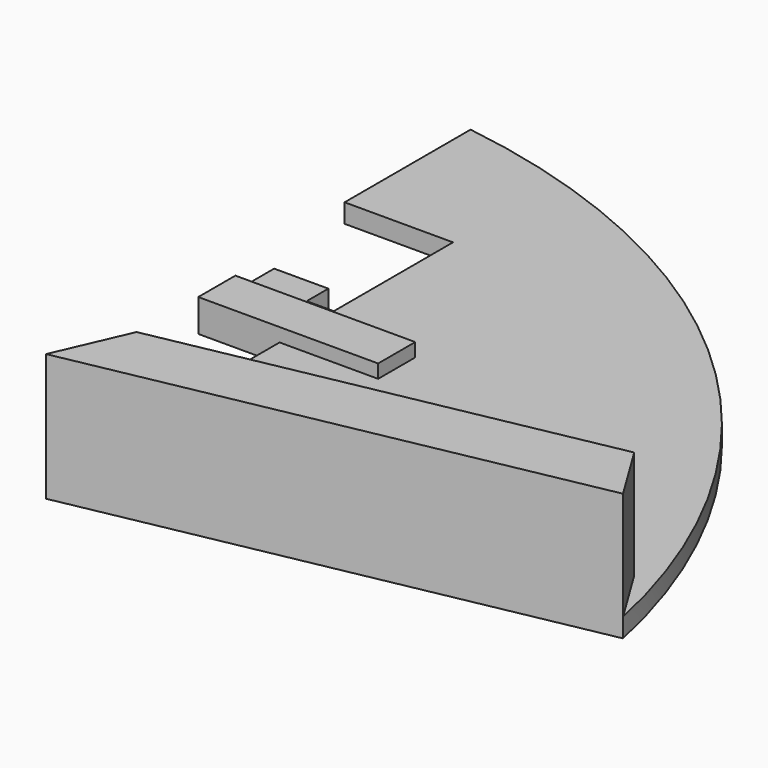
from build123d import *

# Parameters (mm, degrees)
F1_DEPTH = 1.778
F3_DEPTH = 10.16
F4_W     = 16.85848
F4_H     = 4.34721
F5_DEPTH = 1.27


with BuildPart() as f1:
    # F0 (on Top) → F1 (new body)
    with BuildSketch(Plane.XY):
        with BuildLine():
            Line((0, 27.3558), (0, 0))
            Line((0, 0), (46.800594, 9.0932))
            ThreePointArc((46.800594, 9.0932), (26.687452, 44.698298), (-10.16, 62.4332))
            Line((-10.16, 62.4332), (-10.16, 47.6758))
            Line((-10.16, 47.6758), (0, 47.6758))
            Line((0, 47.6758), (0, 33.7058))
            Line((0, 33.7058), (-2.54, 33.7058))
            Line((-2.54, 33.7058), (-2.54, 36.2458))
            Line((-2.54, 36.2458), (-7.62, 36.2458))
            Line((-7.62, 36.2458), (-7.62, 27.3558))
            Line((-7.62, 27.3558), (0, 27.3558))
        make_face()
    extrude(amount=F1_DEPTH)

    # F2 (on face) → F3 (join)
    with BuildSketch(Plane.XY.offset(1.778)):
        Polygon((2.986613, 6.865549), (0, 0), (46.800594, 9.0932), (43.356929, 14.709367), align=None)
    extrude(amount=F3_DEPTH)

    # F4 (on face) → F5 (join)
    with BuildSketch(Plane.XY.offset(1.778)):
        with Locations((0.80924, 29.529405)):
            Rectangle(F4_W, F4_H)
    extrude(amount=F5_DEPTH)


solid = f1.part
